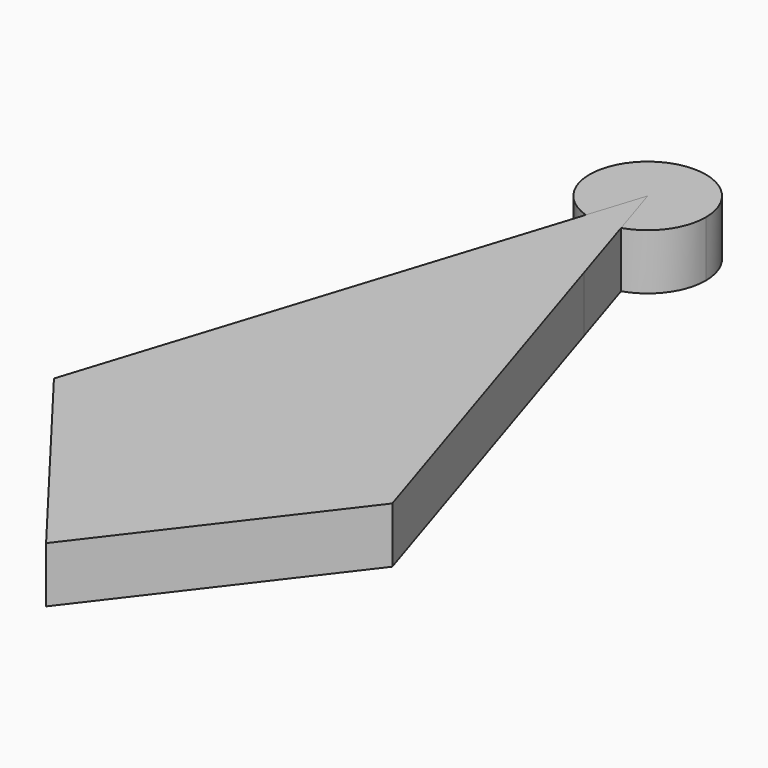
from build123d import *

# Parameters (mm, degrees)
F1_DEPTH = 1
F3_DEPTH = 1


with BuildPart() as f1:
    # F0 (on Top) → F1 (new body)
    with BuildSketch(Plane.XY):
        with BuildLine():
            Line((0, -13.5), (0, -2.5))
            ThreePointArc((0, -2.5), (-0.3841476857, -2.4703098096), (-0.7591710371, -2.3819444444))
            Line((-0.7591710371, -2.3819444444), (-3.0366841484, -9.5277777778))
            Line((-3.0366841484, -9.5277777778), (0, -13.5))
        make_face()
        with BuildLine():
            ThreePointArc((0.7591710371, -2.3819444444), (0.3841476857, -2.4703098096), (0, -2.5))
            Line((0, -2.5), (0, -13.5))
            Line((0, -13.5), (3.0366841484, -9.5277777778))
            Line((3.0366841484, -9.5277777778), (0.7591710371, -2.3819444444))
        make_face()
        with BuildLine():
            Line((0, -2.5), (0, 0))
            Line((0, 0), (-0.7591710371, -2.3819444444))
            ThreePointArc((-0.7591710371, -2.3819444444), (-0.3841476857, -2.4703098096), (0, -2.5))
        make_face()
        with BuildLine():
            Line((0.7591710371, -2.3819444444), (0, 0))
            Line((0, 0), (0, -2.5))
            ThreePointArc((0, -2.5), (0.3841476857, -2.4703098096), (0.7591710371, -2.3819444444))
        make_face()
    extrude(amount=F1_DEPTH)


with BuildPart() as f3:
    # F2 (on face) → F3 (new body)
    with BuildSketch(Plane.XY.offset(1)):
        with BuildLine():
            ThreePointArc((0.3165649217, -0.9932413379), (0.8416504131, -0.6151148568), (1.0424690427, 0))
            ThreePointArc((1.0424690427, 0), (-0.6151148568, 0.8416504131), (-0.3165649217, -0.9932413379))
            Line((-0.3165649217, -0.9932413379), (0, 0))
            Line((0, 0), (0.3165649217, -0.9932413379))
        make_face()
    extrude(amount=-F3_DEPTH)


solid = Compound([f1.part, f3.part])
